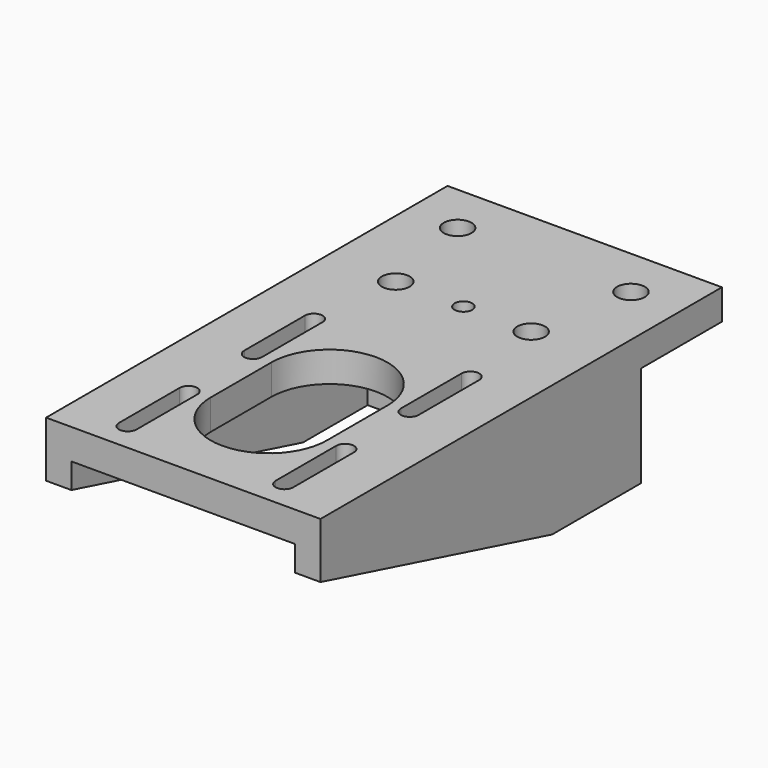
from build123d import *

# Parameters (mm, degrees)
SKETCH_W        = 54.3
SKETCH_H        = 57.3
PAD_DEPTH       = 6
SKETCH001_W     = 54.3
SKETCH001_H     = 26
PAD001_DEPTH    = 42
SKETCH002_W     = 20
SKETCH002_H     = 20
POCKET_DEPTH    = 54.301
PAD002_DEPTH    = 5
SKETCH004_R     = 2.75
POCKET001_DEPTH = 6.001
SKETCH005_W     = 44.3
SKETCH005_H     = 20
POCKET002_DEPTH = 16
SKETCH006_R     = 2.75
SKETCH006_R_2   = 1.75
POCKET003_DEPTH = 6.001
POCKET004_DEPTH = 2
POCKET005_DEPTH = 79.301


with BuildPart() as part:
    # Sketch → Pad (new body)
    with BuildSketch(Plane.XY):
        with Locations((0, -7.5)):
            Rectangle(SKETCH_W, SKETCH_H)
        with BuildLine():
            ThreePointArc((-13.75, 15.5), (-15.5, 17.25), (-17.25, 15.5))
            Line((-17.25, 15.5), (-17.25, 0.5))
            ThreePointArc((-17.25, 0.5), (-15.5, -1.25), (-13.75, 0.5))
            Line((-13.75, 0.5), (-13.75, 15.5))
        make_face(mode=Mode.SUBTRACT)
        with BuildLine():
            ThreePointArc((17.25, 15.5), (15.5, 17.25), (13.75, 15.5))
            Line((13.75, 15.5), (13.75, 0.5))
            ThreePointArc((13.75, 0.5), (15.5, -1.25), (17.25, 0.5))
            Line((17.25, 0.5), (17.25, 15.5))
        make_face(mode=Mode.SUBTRACT)
        with BuildLine():
            ThreePointArc((-13.75, -15.5), (-15.5, -13.75), (-17.25, -15.5))
            Line((-17.25, -15.5), (-17.25, -30.5))
            ThreePointArc((-17.25, -30.5), (-15.5, -32.25), (-13.75, -30.5))
            Line((-13.75, -30.5), (-13.75, -15.5))
        make_face(mode=Mode.SUBTRACT)
        with BuildLine():
            ThreePointArc((17.25, -15.5), (15.5, -13.75), (13.75, -15.5))
            Line((13.75, -15.5), (13.75, -30.5))
            ThreePointArc((13.75, -30.5), (15.5, -32.25), (17.25, -30.5))
            Line((17.25, -30.5), (17.25, -15.5))
        make_face(mode=Mode.SUBTRACT)
        with BuildLine():
            ThreePointArc((11.5, 0), (0, 11.5), (-11.5, 0))
            Line((-11.5, 0), (-11.5, -15))
            ThreePointArc((-11.5, -15), (0, -26.5), (11.5, -15))
            Line((11.5, -15), (11.5, 0))
        make_face(mode=Mode.SUBTRACT)
    extrude(amount=PAD_DEPTH)

    # Sketch001 (on Face1 of Pad) → Pad001 (join)
    with BuildSketch(Plane(origin=(0, 21.15, 0), x_dir=(-1, 0, 0), z_dir=(0, 1, 0))):
        with Locations((0, -7)):
            Rectangle(SKETCH001_W, SKETCH001_H)
    extrude(amount=PAD001_DEPTH)

    # Sketch002 (on Face26 of Pad001) → Pocket (cut, through all)
    with BuildSketch(Plane.YZ.offset(27.15)):
        with Locations((53.15, -10)):
            Rectangle(SKETCH002_W, SKETCH002_H)
    extrude(amount=-POCKET_DEPTH, mode=Mode.SUBTRACT)

    # Sketch003 (on Face3 of Pocket) → Pad002 (join)
    with BuildSketch(Plane(origin=(-27.15, 0, 0), x_dir=(0, -1, 0), z_dir=(-1, 0, 0))):
        Polygon((36.15, 0), (36.15, -5), (-21.15, -20), (-21.15, 0), align=None)
    pad002 = extrude(amount=-PAD002_DEPTH)

    # Mirrored: Pad002 across YZ
    add(pad002.mirror(Plane.YZ))

    # Sketch004 (on Face5 of Mirrored) → Pocket001 (cut, through all)
    with BuildSketch(Plane(origin=(0, 0, 0), x_dir=(1, 0, 0), z_dir=(0, 0, -1))):
        with Locations((-17.15, -53.15)):
            Circle(SKETCH004_R)
        with Locations((17.15, -53.15)):
            Circle(SKETCH004_R)
    extrude(amount=-POCKET001_DEPTH, mode=Mode.SUBTRACT)

    # Sketch005 (on Face5 of Pocket001) → Pocket002 (cut)
    with BuildSketch(Plane.XZ.offset(-21.15)):
        with Locations((0, -10)):
            Rectangle(SKETCH005_W, SKETCH005_H)
    extrude(amount=-POCKET002_DEPTH, mode=Mode.SUBTRACT)

    # Sketch006 (on Face5 of Pocket002) → Pocket003 (cut, through all)
    with BuildSketch(Plane(origin=(0, 0, 0), x_dir=(1, 0, 0), z_dir=(0, 0, -1))):
        with Locations((-13.4, -33.15)):
            Circle(SKETCH006_R)
        with Locations((13.4, -33.15)):
            Circle(SKETCH006_R)
        with Locations((0, -33.15)):
            Circle(SKETCH006_R_2)
    extrude(amount=-POCKET003_DEPTH, mode=Mode.SUBTRACT)

    # Sketch007 (on Face37 of Pocket003) → Pocket004 (cut)
    with BuildSketch(Plane(origin=(0, 0, 0), x_dir=(1, 0, 0), z_dir=(0, 0, -1))):
        Polygon((18.15, -33.15), (15.775, -29.036379), (11.025, -29.036379), (8.65, -33.15), (11.025, -37.263621), (15.775, -37.263621), align=None)
        Polygon((-8.65, -33.15), (-11.025, -29.036379), (-15.775, -29.036379), (-18.15, -33.15), (-15.775, -37.263621), (-11.025, -37.263621), align=None)
        Polygon((3.25, -33.15), (1.625, -30.335417), (-1.625, -30.335417), (-3.25, -33.15), (-1.625, -35.964583), (1.625, -35.964583), align=None)
    extrude(amount=-POCKET004_DEPTH, mode=Mode.SUBTRACT)

    # Sketch008 (on Face48 of Pocket004) → Pocket005 (cut, through all)
    with BuildSketch(Plane(origin=(0, 43.15, 0), x_dir=(-1, 0, 0), z_dir=(0, 1, 0))):
        with BuildLine():
            ThreePointArc((2.75, -10), (0, -7.25), (-2.75, -10))
            Line((-2.75, -10), (-2.75, -30))
            ThreePointArc((-2.75, -30), (0, -32.75), (2.75, -30))
            Line((2.75, -30), (2.75, -10))
        make_face()
    extrude(amount=-POCKET005_DEPTH, mode=Mode.SUBTRACT)


solid = part.part
